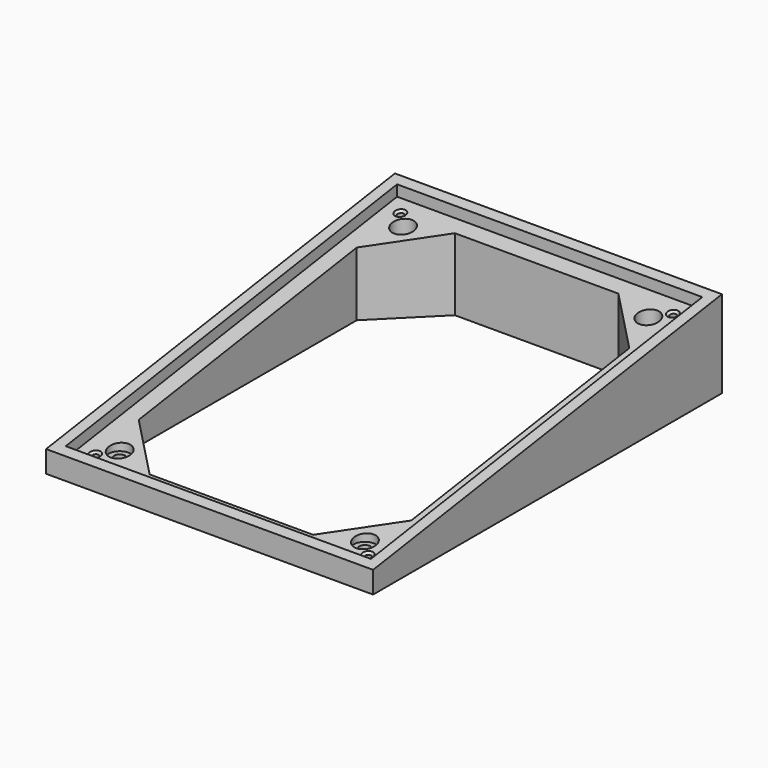
from build123d import *

# Parameters (mm, degrees)
F0_W           = 150
F0_H           = 200
F0_W_2         = 137.5
F0_H_2         = 187.5
F0_R           = 5
F1_DEPTH       = 40
F3_DEPTH       = 155
F5_START       = -5
F5_DEPTH       = 140
F0_R_2         = 2.5
F6_DEPTH       = 5
F8_D           = 3
F8_CSINK_D     = 5
F8_CSINK_ANGLE = 90


with BuildPart() as f1:
    # F0 (on Top) → F1 (new body)
    with BuildSketch(Plane.XY):
        with Locations((2.626e-07, -0.2753496519)):
            Rectangle(F0_W, F0_H)
        with Locations((2.626e-07, -0.2753496519)):
            Rectangle(F0_W_2, F0_H_2, mode=Mode.SUBTRACT)
        with Locations((2.626e-07, -0.2753496519)):
            Rectangle(F0_W_2, F0_H_2)
        Polygon((-62.4999997374, 62.2246503481), (-62.4999997374, 87.2246503481), (-37.4999997374, 87.2246503481), (37.5000002626, 87.2246503481), (62.5000002626, 87.2246503481), (62.5000002626, 62.2246503481), (62.5000002626, -62.7753496519), (62.5000002626, -87.7753496519), (37.5000002626, -87.7753496519), (-37.4999997374, -87.7753496519), (-62.4999997374, -87.7753496519), (-62.4999997374, -62.7753496519), align=None, mode=Mode.SUBTRACT)
        Polygon((62.5000002626, 87.2246503481), (37.5000002626, 87.2246503481), (62.5000002626, 62.2246503481), align=None)
        with Locations((56.2500002626, 80.9746503481)):
            Circle(F0_R, mode=Mode.SUBTRACT)
        Polygon((-37.4999997374, 87.2246503481), (-62.4999997374, 87.2246503481), (-62.4999997374, 62.2246503481), align=None)
        with Locations((-56.2499997374, 80.9746503481)):
            Circle(F0_R, mode=Mode.SUBTRACT)
        Polygon((-37.4999997374, -87.7753496519), (-62.4999997374, -62.7753496519), (-62.4999997374, -87.7753496519), align=None)
        with Locations((-56.2499997374, -81.5253496519)):
            Circle(F0_R, mode=Mode.SUBTRACT)
        Polygon((62.5000002626, -87.7753496519), (62.5000002626, -62.7753496519), (37.5000002626, -87.7753496519), align=None)
        with Locations((56.2500002626, -81.5253496519)):
            Circle(F0_R, mode=Mode.SUBTRACT)
    extrude(amount=F1_DEPTH)

    # F2 (on face) → F3 (cut)
    with BuildSketch(Plane.YZ.offset(75.0000002626)):
        Polygon((99.7246503481, 40), (-100.2753496519, 40), (-100.2753496519, 10), align=None)
    extrude(amount=-F3_DEPTH, mode=Mode.SUBTRACT)

    # F4 (on face) → F5 (cut)
    with BuildSketch(Plane.YZ.offset(75.0000002626).offset(F5_START)):
        Polygon((94.7246503481, 39.25), (-95.2753496519, 10.75), (-95.2753496519, 5.75), (94.7246503481, 34.25), align=None)
    extrude(amount=-F5_DEPTH, mode=Mode.SUBTRACT)

    # F0 (on Top) → F6 (join)
    with BuildSketch(Plane.XY):
        with Locations((-56.2499997374, 80.9746503481)):
            Circle(F0_R)
        with Locations((-56.2499997374, 80.9746503481)):
            Circle(F0_R_2, mode=Mode.SUBTRACT)
        with Locations((56.2500002626, 80.9746503481)):
            Circle(F0_R)
        with Locations((56.2500002626, 80.9746503481)):
            Circle(F0_R_2, mode=Mode.SUBTRACT)
        with Locations((56.2500002626, -81.5253496519)):
            Circle(F0_R)
        with Locations((56.2500002626, -81.5253496519)):
            Circle(F0_R_2, mode=Mode.SUBTRACT)
        with Locations((-56.2499997374, -81.5253496519)):
            Circle(F0_R)
        with Locations((-56.2499997374, -81.5253496519)):
            Circle(F0_R_2, mode=Mode.SUBTRACT)
    extrude(amount=F6_DEPTH)

    # F8 (through all)
    with Locations(Plane(origin=(0, -2.9400443689, 19.6002957925), x_dir=(1, 0, 0), z_dir=(0, -0.1483404529, 0.9889363529))):
        with Locations((-62.4999997374, -85.7843935426), (-62.4999997374, 91.1734050987), (62.5000002626, 91.1734050987), (62.5000002626, -85.7843935426)):
            CounterSinkHole(F8_D / 2, F8_CSINK_D / 2, counter_sink_angle=F8_CSINK_ANGLE)


solid = f1.part
